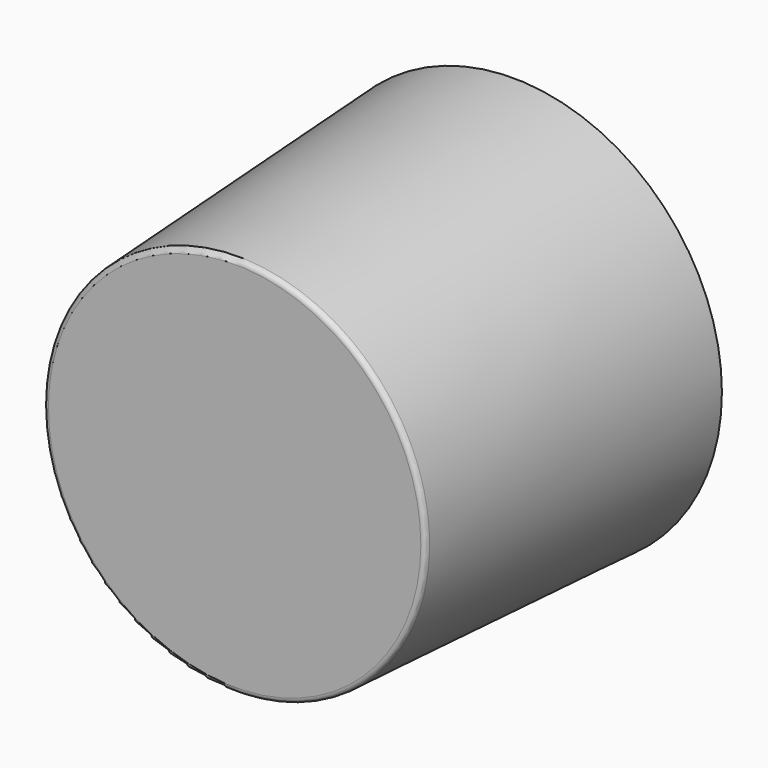
from build123d import *

# Parameters (mm, degrees)
FILLET_R    = 1
FILLET001_R = 1


with BuildPart() as part:
    # Sketch → Revolution (revolve)
    with BuildSketch(Plane.XY):
        Polygon((0, 0), (-36.5, 0), (-40, 68), (-42, 68), (-38.397059, -2), (0, -2), align=None)
    revolve(axis=Axis((0, 0, 0), (0, 1, 0)))

    # Fillet
    fillet_edges = [part.edges().sort_by_distance(p)[0] for p in [
        (38.397059, -2, 0),
    ]]
    fillet(fillet_edges, radius=FILLET_R)

    # Fillet001
    fillet001_edges = [part.edges().sort_by_distance(p)[0] for p in [
        (36.5, 0, 0),
    ]]
    fillet(fillet001_edges, radius=FILLET001_R)


with BuildPart() as part_1:
    # Body001 placement: moved
    add(part.part.moved(Location((15.758551, 56.807331, -3.324877))))


solid = part_1.part
